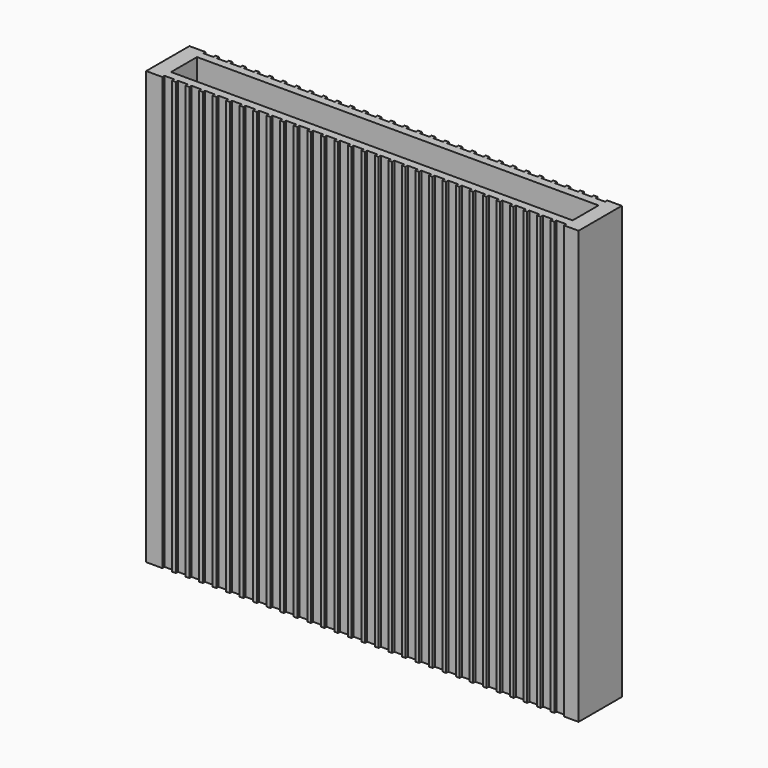
from build123d import *

# Parameters (mm, degrees)
F0_W     = 800
F0_H     = 100
F1_DEPTH = 800
F2_W     = 18
F2_H     = 5
F3_DEPTH = 800


with BuildPart() as f1:
    # F0 (on Top) → F1 (new body)
    with BuildSketch(Plane.XY):
        with Locations((400, 50)):
            Rectangle(F0_W, F0_H)
    extrude(amount=F1_DEPTH)

    # F2 (on face) → F3 (cut, through all)
    with BuildSketch(Plane.XY.offset(800)):
        Polygon((30, 50), (30, 20), (773, 20), (773, 50), (773, 80), (30, 80), align=None)
        with Locations((39, 2.5)):
            Rectangle(F2_W, F2_H)
        with Locations((64, 2.5)):
            Rectangle(F2_W, F2_H)
        with Locations((89, 2.5)):
            Rectangle(F2_W, F2_H)
        with Locations((114, 2.5)):
            Rectangle(F2_W, F2_H)
        with Locations((139, 2.5)):
            Rectangle(F2_W, F2_H)
        with Locations((339, 97.5)):
            Rectangle(F2_W, F2_H)
        with Locations((289, 2.5)):
            Rectangle(F2_W, F2_H)
        with Locations((264, 2.5)):
            Rectangle(F2_W, F2_H)
        with Locations((239, 2.5)):
            Rectangle(F2_W, F2_H)
        with Locations((689, 97.5)):
            Rectangle(F2_W, F2_H)
        with Locations((364, 97.5)):
            Rectangle(F2_W, F2_H)
        with Locations((639, 2.5)):
            Rectangle(F2_W, F2_H)
        with Locations((614, 2.5)):
            Rectangle(F2_W, F2_H)
        with Locations((589, 2.5)):
            Rectangle(F2_W, F2_H)
        with Locations((314, 97.5)):
            Rectangle(F2_W, F2_H)
        with Locations((664, 97.5)):
            Rectangle(F2_W, F2_H)
        with Locations((539, 2.5)):
            Rectangle(F2_W, F2_H)
        with Locations((514, 97.5)):
            Rectangle(F2_W, F2_H)
        with Locations((314, 2.5)):
            Rectangle(F2_W, F2_H)
        with Locations((214, 2.5)):
            Rectangle(F2_W, F2_H)
        with Locations((189, 2.5)):
            Rectangle(F2_W, F2_H)
        with Locations((164, 2.5)):
            Rectangle(F2_W, F2_H)
        with Locations((364, 2.5)):
            Rectangle(F2_W, F2_H)
        with Locations((339, 2.5)):
            Rectangle(F2_W, F2_H)
        with Locations((389, 2.5)):
            Rectangle(F2_W, F2_H)
        with Locations((714, 2.5)):
            Rectangle(F2_W, F2_H)
        with Locations((614, 97.5)):
            Rectangle(F2_W, F2_H)
        with Locations((514, 2.5)):
            Rectangle(F2_W, F2_H)
        with Locations((214, 97.5)):
            Rectangle(F2_W, F2_H)
        with Locations((114, 97.5)):
            Rectangle(F2_W, F2_H)
        with Locations((489, 2.5)):
            Rectangle(F2_W, F2_H)
        with Locations((89, 97.5)):
            Rectangle(F2_W, F2_H)
        with Locations((714, 97.5)):
            Rectangle(F2_W, F2_H)
        with Locations((464, 2.5)):
            Rectangle(F2_W, F2_H)
        with Locations((189, 97.5)):
            Rectangle(F2_W, F2_H)
        with Locations((689, 2.5)):
            Rectangle(F2_W, F2_H)
        with Locations((439, 97.5)):
            Rectangle(F2_W, F2_H)
        with Locations((289, 97.5)):
            Rectangle(F2_W, F2_H)
        with Locations((439, 2.5)):
            Rectangle(F2_W, F2_H)
        with Locations((264, 97.5)):
            Rectangle(F2_W, F2_H)
        with Locations((389, 97.5)):
            Rectangle(F2_W, F2_H)
        with Locations((664, 2.5)):
            Rectangle(F2_W, F2_H)
        with Locations((464, 97.5)):
            Rectangle(F2_W, F2_H)
        with Locations((414, 2.5)):
            Rectangle(F2_W, F2_H)
        with Locations((539, 97.5)):
            Rectangle(F2_W, F2_H)
        with Locations((564, 97.5)):
            Rectangle(F2_W, F2_H)
        with Locations((639, 97.5)):
            Rectangle(F2_W, F2_H)
        with Locations((164, 97.5)):
            Rectangle(F2_W, F2_H)
        with Locations((139, 97.5)):
            Rectangle(F2_W, F2_H)
        with Locations((39, 97.5)):
            Rectangle(F2_W, F2_H)
        with Locations((564, 2.5)):
            Rectangle(F2_W, F2_H)
        with Locations((239, 97.5)):
            Rectangle(F2_W, F2_H)
        with Locations((414, 97.5)):
            Rectangle(F2_W, F2_H)
        with Locations((589, 97.5)):
            Rectangle(F2_W, F2_H)
        with Locations((764, 2.5)):
            Rectangle(F2_W, F2_H)
        with Locations((64, 97.5)):
            Rectangle(F2_W, F2_H)
        with Locations((739, 2.5)):
            Rectangle(F2_W, F2_H)
        with Locations((489, 97.5)):
            Rectangle(F2_W, F2_H)
        with Locations((739, 97.5)):
            Rectangle(F2_W, F2_H)
        with Locations((764, 97.5)):
            Rectangle(F2_W, F2_H)
    extrude(amount=-F3_DEPTH, mode=Mode.SUBTRACT)


solid = f1.part
